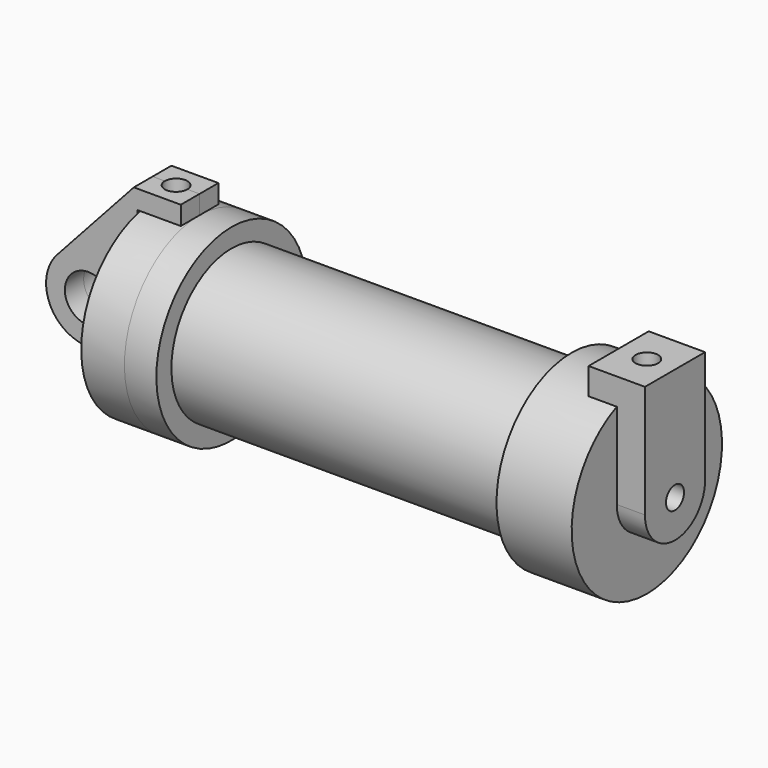
from build123d import *

# Parameters (mm, degrees)
F0_R      = 3.175
F1_DEPTH  = 3.175
F0_W      = 5.842
F0_H      = 12.7
F4_DEPTH  = 3.175
F5_R      = 1.524
F6_DEPTH  = 3.81
F7_R      = 1.524
F8_DEPTH  = 10.414
F9_R      = 1.524
F10_DEPTH = 17.78


with BuildPart() as f1:
    # F0 (on Front) → F1 (new body, symmetric)
    with BuildSketch(Plane.XZ):
        with BuildLine():
            Line((-0.9398, 0), (0, 0))
            Line((0, 0), (0, 12.7))
            Line((0, 12.7), (5.842, 12.7))
            Line((5.842, 12.7), (5.842, 15.24))
            Line((5.842, 15.24), (-0.508, 15.24))
            Line((-0.508, 15.24), (-10.8806298187, 3.8475430269))
            ThreePointArc((-10.8806298187, 3.8475430269), (-4.5919612295, 5.3297205562), (-0.9398, 0))
        make_face()
        with BuildLine():
            ThreePointArc((-8.1826630726, -5.5069827884), (-3.1957909266, -4.5493385486), (-0.9398, 0))
            ThreePointArc((-0.9398, 0), (-4.5919612295, 5.3297205562), (-10.8806298187, 3.8475430269))
            ThreePointArc((-10.8806298187, 3.8475430269), (-12.1459778134, -1.5837270034), (-8.1826630726, -5.5069827884))
        make_face()
        with Locations((-6.6548, 0)):
            Circle(F0_R, mode=Mode.SUBTRACT)
    extrude(amount=F1_DEPTH, both=True)

    # F9 (on face) → F10 (cut)
    with BuildSketch(Plane.XY.offset(15.24)):
        with Locations((2.667, 0)):
            Circle(F9_R)
    extrude(amount=-F10_DEPTH, mode=Mode.SUBTRACT)


with BuildPart() as f2:
    # F0 (on Front) → F2 (revolve)
    with BuildSketch(Plane.XZ):
        Polygon((5.842, 12.7), (5.842, 0), (66.294, 0), (66.294, 12.7), (56.134, 12.7), (56.134, 10.16), (10.16, 10.16), (10.16, 12.7), align=None)
    revolve(axis=Axis((-3.3274, 0, 0), (-1, 0, 0)))

    # F5 (on face) → F6 (join, symmetric)
    with BuildSketch(Plane.YZ.offset(66.294)):
        with BuildLine():
            ThreePointArc((-5.08, 0), (0, -5.08), (5.08, 0))
            ThreePointArc((5.08, 0), (0, 5.08), (-5.08, 0))
        make_face()
        Circle(F5_R, mode=Mode.SUBTRACT)
        with BuildLine():
            ThreePointArc((-5.08, 0), (0, 5.08), (5.08, 0))
            Line((5.08, 0), (5.08, 15.24))
            Line((5.08, 15.24), (-5.08, 15.24))
            Line((-5.08, 15.24), (-5.08, 0))
        make_face()
    extrude(amount=F6_DEPTH, both=True)

    # F7 (on face) → F8 (cut)
    with BuildSketch(Plane.XY.offset(15.24)):
        with Locations((66.294, 0)):
            Circle(F7_R)
    extrude(amount=-F8_DEPTH, mode=Mode.SUBTRACT)


with BuildPart() as f3:
    # F0 (on Front) → F3 (revolve)
    with BuildSketch(Plane.XZ):
        with Locations((2.921, 6.35)):
            Rectangle(F0_W, F0_H)
    revolve(axis=Axis((-3.3274, 0, 0), (-1, 0, 0)))


with BuildPart() as f4:
    # F0 (on Front) → F4 (new body, symmetric)
    with BuildSketch(Plane.XZ):
        with BuildLine():
            Line((5.842, 0), (0, 0))
            Line((0, 0), (-0.9398, 0))
            ThreePointArc((-0.9398, 0), (-3.1957909266, -4.5493385486), (-8.1826630726, -5.5069827884))
            Line((-8.1826630726, -5.5069827884), (5.842, -9.398))
            Line((5.842, -9.398), (5.842, 0))
        make_face()
    extrude(amount=F4_DEPTH, both=True)


solid = Compound([f1.part, f2.part, f3.part, f4.part])
